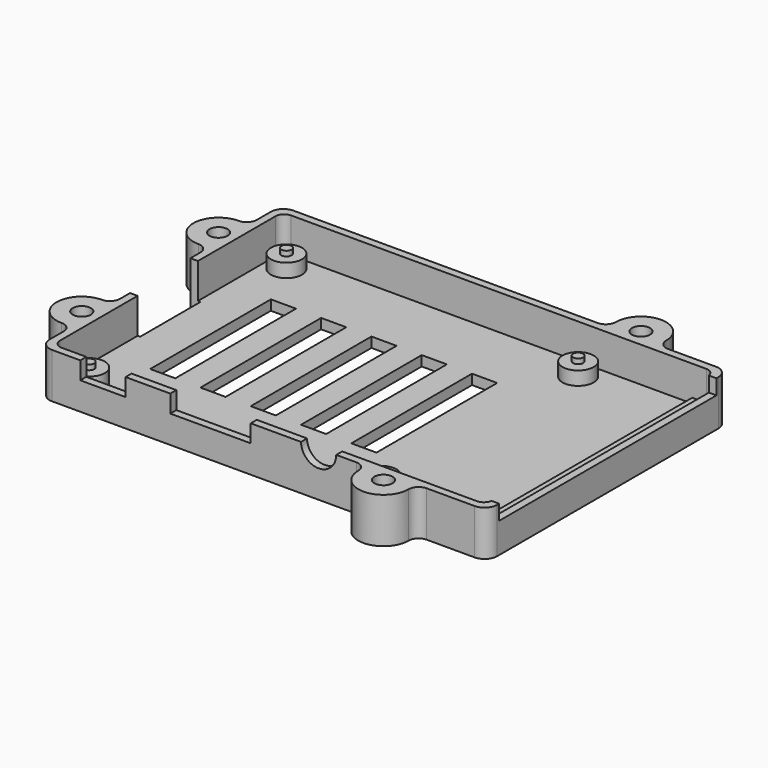
from build123d import *

# Parameters (mm, degrees)
SKETCH_R        = 1.8
PAD_DEPTH       = 9
POCKET_DEPTH    = 7
SKETCH002_R     = 3.1
SKETCH002_W     = 2
SKETCH002_H     = 52
PAD001_DEPTH    = 2.7
SKETCH003_R     = 1
PAD002_DEPTH    = 1
POCKET001_DEPTH = 2
POCKET002_DEPTH = 2
SKETCH006_R     = 3.5
POCKET003_DEPTH = 5
POCKET004_DEPTH = 3
SKETCH009_W     = 5
SKETCH009_H     = 30
POCKET005_DEPTH = 5


with BuildPart() as part:
    # Sketch → Pad (new body)
    with BuildSketch(Plane.XY):
        with BuildLine():
            Line((89.002639, 2.5), (89.002639, 57.5))
            ThreePointArc((89.002639, 57.5), (88.270406, 59.267767), (86.502639, 60))
            Line((77, 60), (86.502639, 60))
            ThreePointArc((75, 62), (75.585786, 60.585786), (77, 60))
            ThreePointArc((75, 62), (70, 67), (65, 62))
            ThreePointArc((63, 60), (64.414214, 60.585786), (65, 62))
            Line((2.5, 60), (63, 60))
            ThreePointArc((2.5, 60), (0.732233, 59.267767), (0, 57.500001))
            Line((0, 57.500001), (0, 54))
            ThreePointArc((-2, 52), (-0.585786, 52.585786), (0, 54))
            ThreePointArc((-2, 52), (-7, 47), (-2, 42))
            ThreePointArc((0, 40), (-0.585786, 41.414214), (-2, 42))
            Line((0, 40), (0, 20))
            ThreePointArc((-2, 18), (-0.585786, 18.585786), (0, 20))
            ThreePointArc((-2, 18), (-7, 13), (-2, 8))
            ThreePointArc((0, 6), (-0.585786, 7.414214), (-2, 8))
            Line((0, 6), (0, 2.499999))
            ThreePointArc((0, 2.499999), (0.732233, 0.732233), (2.5, 0))
            Line((2.5, 0), (63, 0))
            ThreePointArc((65, -2), (64.414214, -0.585786), (63, 0))
            ThreePointArc((65, -2), (70, -7), (75, -2))
            ThreePointArc((77, 0), (75.585786, -0.585786), (75, -2))
            Line((77, 0), (86.502639, 0))
            ThreePointArc((86.502639, 0), (88.270406, 0.732233), (89.002639, 2.5))
        make_face()
        with Locations((70, 62)):
            Circle(SKETCH_R, mode=Mode.SUBTRACT)
        with Locations((-2, 47)):
            Circle(SKETCH_R, mode=Mode.SUBTRACT)
        with Locations((-2, 13)):
            Circle(SKETCH_R, mode=Mode.SUBTRACT)
        with Locations((70, -2)):
            Circle(SKETCH_R, mode=Mode.SUBTRACT)
    extrude(amount=PAD_DEPTH)

    # Sketch001 → Pocket (cut)
    with BuildSketch(Plane.XY.offset(9)):
        with BuildLine():
            Line((87.5, 3.2), (87.5, 56.8))
            ThreePointArc((87.5, 56.8), (87.002082, 58.002081), (85.8, 58.5))
            Line((3.199992, 58.5), (85.8, 58.5))
            ThreePointArc((3.199992, 58.5), (1.997916, 58.002079), (1.5, 56.8))
            Line((1.5, 56.8), (1.5, 3.2))
            ThreePointArc((1.5, 3.2), (1.997916, 1.997921), (3.199992, 1.5))
            Line((3.199992, 1.5), (85.8, 1.5))
            ThreePointArc((85.8, 1.5), (87.002082, 1.997918), (87.5, 3.2))
        make_face()
    extrude(amount=-POCKET_DEPTH, mode=Mode.SUBTRACT)

    # Sketch002 → Pad001 (new body)
    with BuildSketch(Plane.XY.offset(2)):
        with Locations((5.5, 5.5)):
            Circle(SKETCH002_R)
        with Locations((5.5, 54.5)):
            Circle(SKETCH002_R)
        with Locations((63.5, 54.5)):
            Circle(SKETCH002_R)
        with Locations((63.5, 5.5)):
            Circle(SKETCH002_R)
        with Locations((86, 30)):
            Rectangle(SKETCH002_W, SKETCH002_H)
    extrude(amount=PAD001_DEPTH)

    # Sketch003 → Pad002 (new body)
    with BuildSketch(Plane.XY.offset(4.7)):
        with Locations((5.5, 54.5)):
            Circle(SKETCH003_R)
        with Locations((63.5, 54.5)):
            Circle(SKETCH003_R)
        with Locations((63.5, 5.5)):
            Circle(SKETCH003_R)
        with Locations((5.5, 5.5)):
            Circle(SKETCH003_R)
    extrude(amount=PAD002_DEPTH)

    # Sketch004 → Pocket001 (cut)
    with BuildSketch(Plane(origin=(0, 0, 0), x_dir=(0, -1, 0), z_dir=(-1, 0, 0))):
        Polygon((-37.5, 9), (-22.5, 9), (-22.5, 0), (-30, 0), (-37.5, 0), align=None)
    extrude(amount=-POCKET001_DEPTH, mode=Mode.SUBTRACT)

    # Sketch005 → Pocket002 (cut)
    with BuildSketch(Plane.YZ.offset(89.002639)):
        Polygon((3, 9), (57, 9), (57, 6), (30, 6), (3, 6), align=None)
    extrude(amount=-POCKET002_DEPTH, mode=Mode.SUBTRACT)

    # Sketch006 → Pocket003 (cut)
    with BuildSketch(Plane.XZ):
        with Locations((55.5, 9)):
            Circle(SKETCH006_R)
        Polygon((42, 5.5), (42, 13.5), (26, 13.5), (26, 5.5), (34, 5.5), align=None)
        Polygon((17.1, 5.5), (17.1, 9), (8.1, 9), (8.1, 5.5), (12.6, 5.5), align=None)
    extrude(amount=-POCKET003_DEPTH, mode=Mode.SUBTRACT)

    # Sketch008 → Pocket004 (cut)
    with BuildSketch(Plane(origin=(0, 0, 0), x_dir=(1, 0, 0), z_dir=(0, 0, -1))):
        Polygon((-5, -14.732051), (-5, -11.267949), (-2, -9.535898), (1, -11.267949), (1, -14.732051), (-2, -16.464102), align=None)
        Polygon((-5, -48.732051), (-5, -45.267949), (-2, -43.535898), (1, -45.267949), (1, -48.732051), (-2, -50.464102), align=None)
        Polygon((67, 0.267949), (67, 3.732051), (70, 5.464102), (73, 3.732051), (73, 0.267949), (70, -1.464102), align=None)
        Polygon((67, -63.732051), (67, -60.267949), (70, -58.535898), (73, -60.267949), (73, -63.732051), (70, -65.464102), align=None)
    extrude(amount=-POCKET004_DEPTH, mode=Mode.SUBTRACT)

    # Sketch009 → Pocket005 (cut)
    with BuildSketch(Plane.XY.offset(2)):
        Polygon((10, 15), (15, 15), (15, 45), (10, 45), (10, 30), align=None)
        with Locations((22.5, 30)):
            Rectangle(SKETCH009_W, SKETCH009_H)
        with Locations((32.5, 30)):
            Rectangle(SKETCH009_W, SKETCH009_H)
        with Locations((42.5, 30)):
            Rectangle(SKETCH009_W, SKETCH009_H)
        with Locations((52.5, 30)):
            Rectangle(SKETCH009_W, SKETCH009_H)
    extrude(amount=-POCKET005_DEPTH, mode=Mode.SUBTRACT)


solid = part.part
